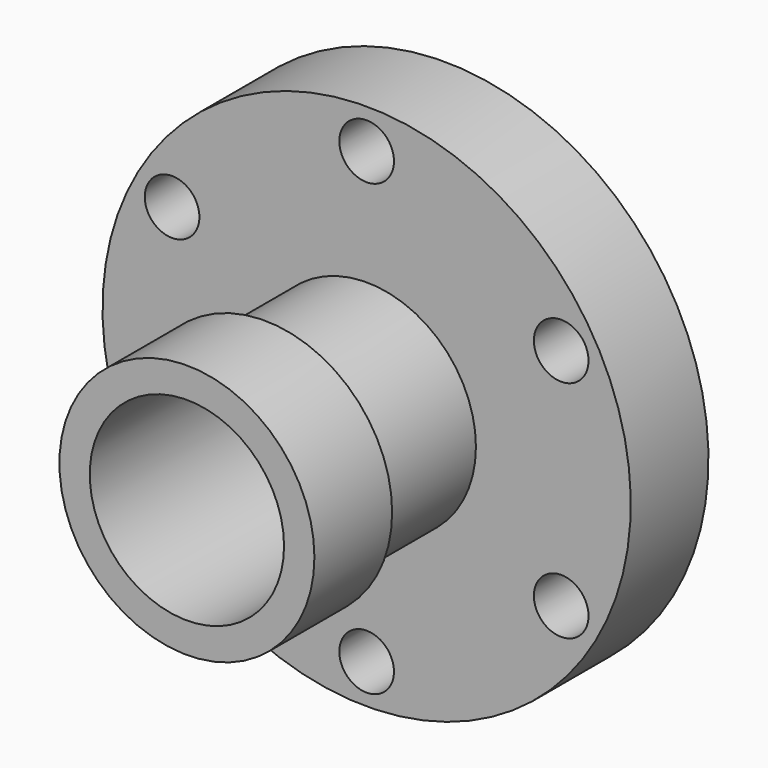
from build123d import *

# Parameters (mm, degrees)
SKETCH015_R            = 14.2875
SKETCH015_R_2          = 12.7
PAD015_DEPTH           = 29.21
SKETCH016_R            = 16.66875
SKETCH016_R_2          = 12.7
PAD016_DEPTH           = 12.7
SKETCH014_R            = 3.571875
PAD014_DEPTH           = 13
SKETCH013_R            = 34.528125
SKETCH013_R_2          = 14.2875
PAD013_DEPTH           = 12.7
CUT006_PLACEMENT_ANGLE = 60
CUT007_PLACEMENT_ANGLE = 60
CUT008_PLACEMENT_ANGLE = 60
CUT009_PLACEMENT_ANGLE = 60
CUT010_PLACEMENT_ANGLE = 60


with BuildPart() as body015:
    # Sketch015 → Pad015 (new body)
    with BuildSketch(Plane.XZ):
        Circle(SKETCH015_R)
        Circle(SKETCH015_R_2, mode=Mode.SUBTRACT)
    extrude(amount=PAD015_DEPTH)


with BuildPart() as body015_1:
    # Body015 placement: moved
    add(body015.part.moved(Location((0, -0.16, 0))))


with BuildPart() as body016:
    # Sketch016 → Pad016 (new body)
    with BuildSketch(Plane.XZ):
        Circle(SKETCH016_R)
        Circle(SKETCH016_R_2, mode=Mode.SUBTRACT)
    extrude(amount=PAD016_DEPTH)


with BuildPart() as body016_1:
    # Body016 placement: moved
    add(body016.part.moved(Location((0, -29.37, 0))))


with BuildPart() as body014:
    # Sketch014 → Pad014 (new body)
    with BuildSketch(Plane.XZ):
        with Locations((0, 29.36875)):
            Circle(SKETCH014_R)
    extrude(amount=PAD014_DEPTH)


with BuildPart() as fusion001:
    # Sketch013 → Pad013 (new body)
    with BuildSketch(Plane.XZ):
        Circle(SKETCH013_R)
        Circle(SKETCH013_R_2, mode=Mode.SUBTRACT)
    extrude(amount=PAD013_DEPTH)

    # Cut006: cut Body014
    add(body014.part, mode=Mode.SUBTRACT)


with BuildPart() as fusion001_1:
    # Cut006 placement: moved
    add(fusion001.part.rotate(Axis((0, 0, 0), (0, 1, 0)), CUT006_PLACEMENT_ANGLE))

    # Cut007: cut Body014
    add(body014.part, mode=Mode.SUBTRACT)


with BuildPart() as fusion001_2:
    # Cut007 placement: moved
    add(fusion001_1.part.rotate(Axis((0, 0, 0), (0, 1, 0)), CUT007_PLACEMENT_ANGLE))

    # Cut008: cut Body014
    add(body014.part, mode=Mode.SUBTRACT)


with BuildPart() as fusion001_3:
    # Cut008 placement: moved
    add(fusion001_2.part.rotate(Axis((0, 0, 0), (0, 1, 0)), CUT008_PLACEMENT_ANGLE))

    # Cut009: cut Body014
    add(body014.part, mode=Mode.SUBTRACT)


with BuildPart() as fusion001_4:
    # Cut009 placement: moved
    add(fusion001_3.part.rotate(Axis((0, 0, 0), (0, 1, 0)), CUT009_PLACEMENT_ANGLE))

    # Cut010: cut Body014
    add(body014.part, mode=Mode.SUBTRACT)


with BuildPart() as fusion001_5:
    # Cut010 placement: moved
    add(fusion001_4.part.rotate(Axis((0, 0, 0), (0, 1, 0)), CUT010_PLACEMENT_ANGLE))

    # Cut011: cut Body014
    add(body014.part, mode=Mode.SUBTRACT)

    # Fusion001: union Body015, Body016
    add(body015_1.part)
    add(body016_1.part)


solid = fusion001_5.part
